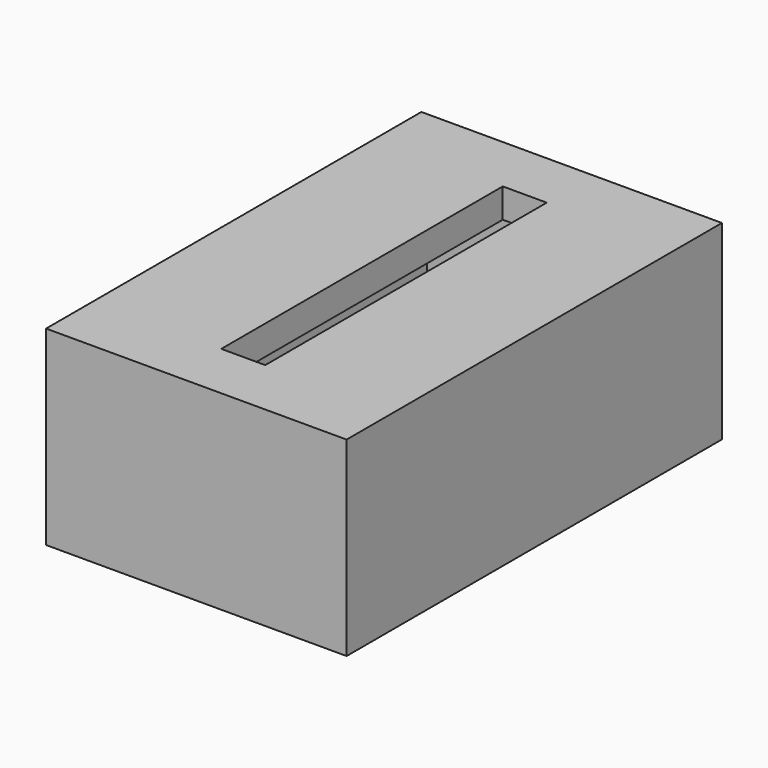
from build123d import *

# Parameters (mm, degrees)
BOX017_W     = 16.5
BOX017_H     = 28
BOX017_DEPTH = 11
BOX026_W     = 3
BOX026_H     = 24
BOX026_DEPTH = 2
BOX018_W     = 20.5
BOX018_H     = 32
BOX018_DEPTH = 13


with BuildPart() as cube017:
    # Box017 → Box017 (new body)
    with BuildSketch(Plane(origin=(-2.25, -11, 0), x_dir=(1, 0, 0), z_dir=(0, 0, 1))):
        with Locations((8.25, 14)):
            Rectangle(BOX017_W, BOX017_H)
    extrude(amount=BOX017_DEPTH)


with BuildPart() as fusion011:
    # Box026 → Box026 (new body)
    with BuildSketch(Plane(origin=(4.5, -9, 11), x_dir=(1, 0, 0), z_dir=(0, 0, 1))):
        with Locations((1.5, 12)):
            Rectangle(BOX026_W, BOX026_H)
    extrude(amount=BOX026_DEPTH)

    # Fusion011: union Cube017
    add(cube017.part)


with BuildPart() as obj1:
    # Box018 → Box018 (new body)
    with BuildSketch(Plane(origin=(-4.25, -13, 0), x_dir=(1, 0, 0), z_dir=(0, 0, 1))):
        with Locations((10.25, 16)):
            Rectangle(BOX018_W, BOX018_H)
    extrude(amount=BOX018_DEPTH)

    # Cut022: cut Fusion011
    add(fusion011.part, mode=Mode.SUBTRACT)


solid = obj1.part
